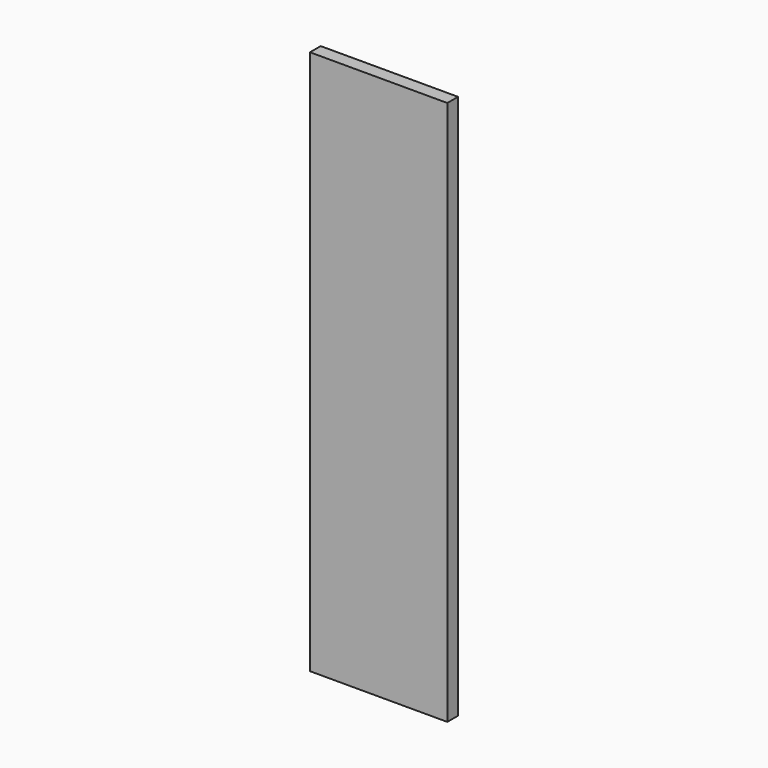
from build123d import *

# Parameters (mm, degrees)
F0_W     = 195.2625
F0_H     = 387.35
F1_DEPTH = 9.525


with BuildPart() as f1:
    # F0 (on Front) → F1 (new body, symmetric)
    with BuildSketch(Plane.XZ):
        with Locations((-91.5352453259, 193.675)):
            Rectangle(F0_W, F0_H)
        with Locations((-91.5352453259, -193.675)):
            Rectangle(F0_W, F0_H)
    extrude(amount=F1_DEPTH, both=True)


solid = f1.part
